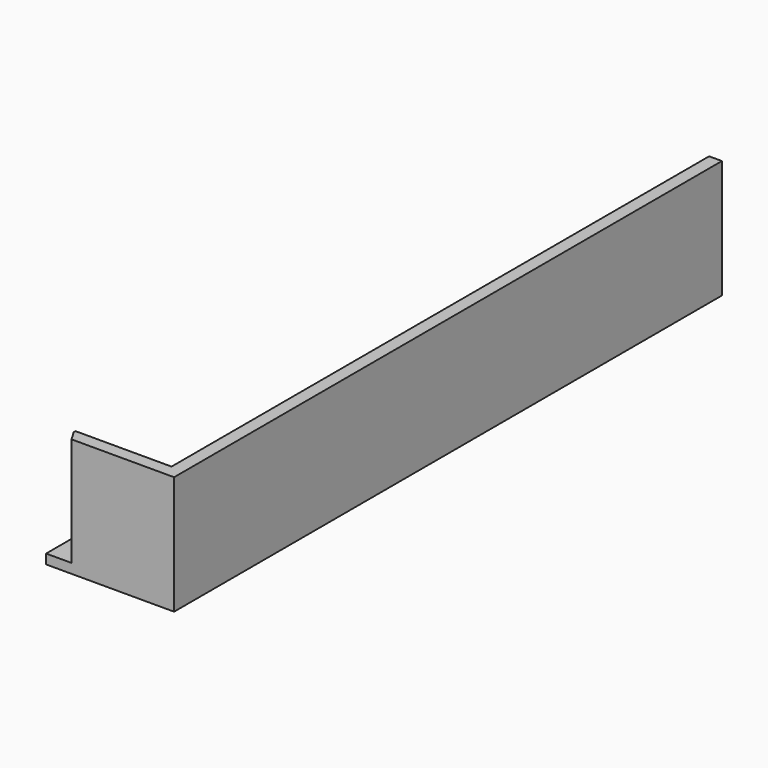
from build123d import *

# Parameters (mm, degrees)
BOX117_W               = 2
BOX117_H               = 107
BOX117_DEPTH           = 18.5
BOX116_W               = 20
BOX116_H               = 107
BOX116_DEPTH           = 1.5
FILLET002002003_R      = 7
BOX108_W               = 47
BOX108_H               = 18
BOX108_DEPTH           = 20
BOX108_PLACEMENT_ANGLE = 60
BOX119_W               = 17
BOX119_H               = 2
BOX119_DEPTH           = 18.5


with BuildPart() as cube112:
    # Box117 → Box117 (new body)
    with BuildSketch(Plane(origin=(23, -54, 0), x_dir=(1, 0, 0), z_dir=(0, 0, 1))):
        with Locations((1, 53.5)):
            Rectangle(BOX117_W, BOX117_H)
    extrude(amount=BOX117_DEPTH)


with BuildPart() as fillet002002003:
    # Box116 → Box116 (new body)
    with BuildSketch(Plane(origin=(5, -54, 0), x_dir=(1, 0, 0), z_dir=(0, 0, 1))):
        with Locations((10, 53.5)):
            Rectangle(BOX116_W, BOX116_H)
    extrude(amount=BOX116_DEPTH)

    # Fusion018011: union Cube112
    add(cube112.part)

    # Fillet002002003
    fillet002002003_edges = [fillet002002003.edges().sort_by_distance(p)[0] for p in [
        (23, -0.5, 1.5),
    ]]
    fillet(fillet002002003_edges, radius=FILLET002002003_R)


with BuildPart() as trim_a002:
    # Box108 → Box108 (new body)
    with BuildSketch(Plane.XY):
        with Locations((23.5, 9)):
            Rectangle(BOX108_W, BOX108_H)
    extrude(amount=BOX108_DEPTH)


with BuildPart() as trim_a002_1:
    # Box108 placement: moved
    add(trim_a002.part.moved(Location((-22.585247, -35.363619, 0))).rotate(Axis((-22.585247, -35.363619, 0), (0, 0, -1)), BOX108_PLACEMENT_ANGLE))


with BuildPart() as fusion018012:
    # Box119 → Box119 (new body)
    with BuildSketch(Plane(origin=(8, -54, 0), x_dir=(1, 0, 0), z_dir=(0, 0, 1))):
        with Locations((8.5, 1)):
            Rectangle(BOX119_W, BOX119_H)
    extrude(amount=BOX119_DEPTH)

    # Cut025: cut trim-a002
    add(trim_a002_1.part, mode=Mode.SUBTRACT)

    # Fusion018012: union Fillet002002003
    add(fillet002002003.part)


solid = fusion018012.part
